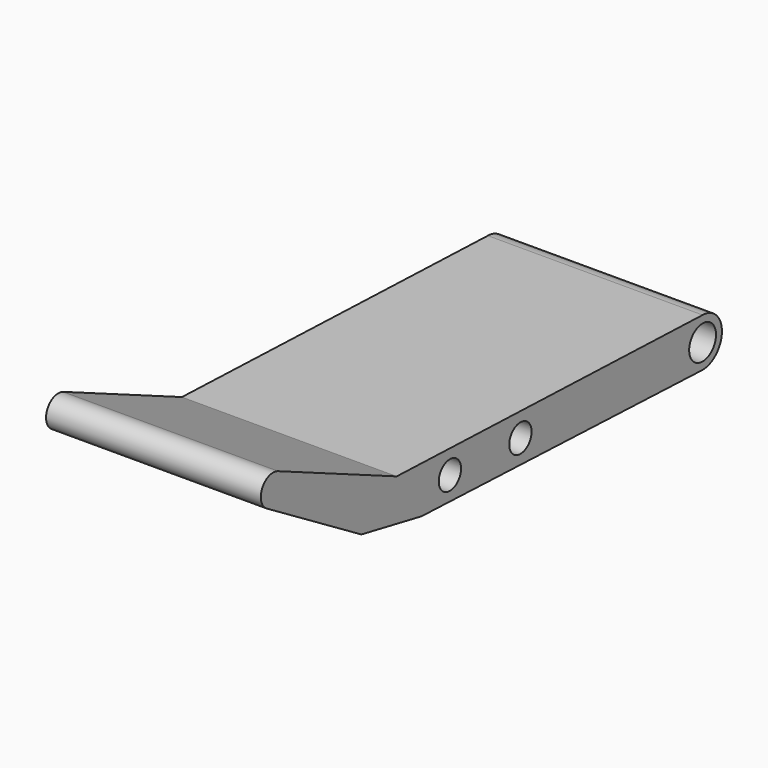
from build123d import *

# Parameters (mm, degrees)
F0_R     = 1.9875
F0_R_2   = 1.65
F1_DEPTH = 25.4


with BuildPart() as f1:
    # F0 (on Right) → F1 (new body)
    with BuildSketch(Plane.YZ):
        with BuildLine():
            ThreePointArc((-0.113457, -2.855247), (1.980038, -2.06028), (2.8575, 0))
            ThreePointArc((2.8575, 0), (2.020558, 2.020558), (0, 2.8575))
            ThreePointArc((0, 2.8575), (-2.856937, 0.056739), (-0.113457, -2.855247))
        make_face()
        Circle(F0_R, mode=Mode.SUBTRACT)
        with BuildLine():
            ThreePointArc((-0.113457, -2.855247), (-2.856937, 0.056739), (0, 2.8575))
            Line((0, 2.8575), (-45.226254, 4.440485))
            Line((-45.226254, 4.440485), (-62.773663, 12.115213))
            ThreePointArc((-62.773663, 12.115213), (-65.110888, 11.285482), (-64.432182, 8.90002))
            Line((-64.432182, 8.90002), (-50.444751, 0.512251))
            Line((-50.444751, 0.512251), (-41.549227, -1.208748))
            Line((-41.549227, -1.208748), (-0.113457, -2.855247))
        make_face()
        with Locations((-37.359335, 1.384337)):
            Circle(F0_R_2, mode=Mode.SUBTRACT)
        with Locations((-26.931804, 0.990845)):
            Circle(F0_R_2, mode=Mode.SUBTRACT)
    extrude(amount=F1_DEPTH)


solid = f1.part
